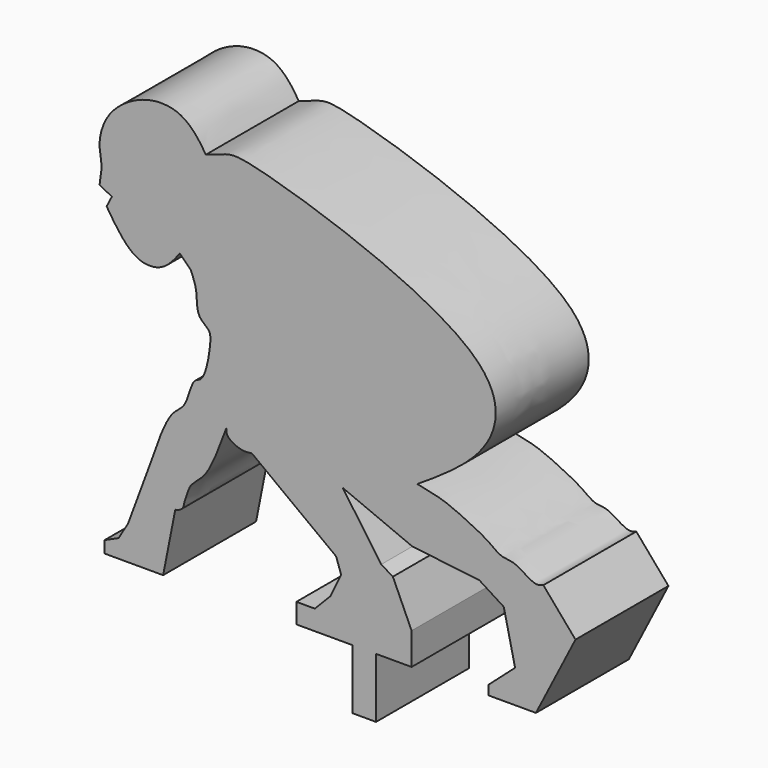
from build123d import *

# Parameters (mm, degrees)
F1_DEPTH = 6.34


with BuildPart() as f1:
    # F0 (on Front) → F1 (new body)
    with BuildSketch(Plane.XZ):
        with BuildLine():
            Line((-12.6490322873, -3.2698512077), (-11.368021369, -3.2698512077))
            Line((-11.368021369, -3.2698512077), (-11.3749522716, 0))
            Line((-11.3749522716, 0), (-9.4284210354, 0))
            Line((-9.4284210354, 0), (-9.4284210354, 1.7431378365))
            Line((-9.4284210354, 1.7431378365), (-10.4498676956, 4.0053427219))
            Line((-10.4498676956, 4.0053427219), (-11.0858632252, 4.3869242072))
            Line((-11.0858632252, 4.3869242072), (-13.1865749136, 7.3850303888))
            Line((-13.1865749136, 7.3850303888), (-9.3898754567, 5.8042109013))
            Line((-9.3898754567, 5.8042109013), (-5.7280850597, 5.3681209683))
            Line((-5.7280850597, 5.3681209683), (-4.3982765637, 4.5232027769))
            Line((-4.3982765637, 4.5232027769), (-3.7815538235, 1.7976462841))
            Line((-3.7815538235, 1.7976462841), (-5.2269976586, 0.5166381598))
            Line((-5.2269976586, 0.5166381598), (-5.2269976586, 0))
            Line((-5.2269976586, 0), (-2.6444715913, 0))
            Line((-2.6444715913, 0), (-0.4859422043, 4.2233914137))
            Line((-0.4859422043, 4.2233914137), (-2.2397474386, 6.267555058))
            add(Edge.make_bspline(
                [(-9.1137494892, 8.8909715414), (-8.6540406807, 8.799052454), (-7.7655490822, 8.6213979574), (-6.7041098217, 8.1641628082), (-5.2783597287, 7.4800864304), (-4.5330030432, 6.8180092602), (-3.7782507083, 6.9258502993), (-2.7585273405, 6.0735909751), (-2.3843641779, 6.2134850119), (-2.2397474386, 6.267555058)],
                knots=[0, 0, 0, 0, 0.1637114509, 0.3164095314, 0.4933909494, 0.6288476069, 0.7469529261, 0.9021954955, 1, 1, 1, 1], degree=3))
            add(Edge.make_bspline(
                [(-20.6583868712, 20.9548473358), (-20.261770275, 21.1036316148), (-19.4332398979, 21.4144413386), (-18.1065689496, 21.4985433424), (-4.4712962479, 17.1143951978), (-4.6984714845, 11.7466314914), (-7.5752204552, 9.8860426875), (-9.1137494892, 8.8909715414)],
                knots=[0, 0, 0, 0, 0.1073442843, 0.2242417518, 0.5853612758, 0.7782449139, 1, 1, 1, 1], degree=3))
            add(Edge.make_bspline(
                [(-26.4540742702, 17.6177005352), (-26.3949770124, 17.9915366435), (-26.2836266324, 18.6959143811), (-26.5593047922, 19.5225846627), (-26.1558159561, 21.309341302), (-24.1306581215, 22.7138596252), (-22.1941695459, 22.6838224396), (-21.1843602786, 21.7862982454), (-20.825893385, 21.219639132), (-20.6583868712, 20.9548473358)],
                knots=[0, 0, 0, 0, 0.1255186055, 0.2365007271, 0.3936888569, 0.5807105674, 0.7442566965, 0.8804947682, 1, 1, 1, 1], degree=3))
            Line((-26.4540742702, 17.6177005352), (-25.7824286819, 17.2737836838))
            Line((-25.7824286819, 17.2737836838), (-26.0686129332, 16.7148858309))
            add(Edge.make_bspline(
                [(-22.0756754279, 15.7512500882), (-22.3672896403, 15.3690961661), (-22.9293509831, 14.6325273107), (-24.2994499338, 14.5458422501), (-25.309425532, 15.5229489021), (-25.8123416478, 16.3125356228), (-26.0686129332, 16.7148858309)],
                knots=[0, 0, 0, 0, 0.2539984416, 0.4895601761, 0.7398948539, 1, 1, 1, 1], degree=3))
            Line((-22.0756754279, 15.7512500882), (-21.4760527015, 15.1538029313))
            add(Edge.make_bspline(
                [(-23.6495602876, 5.2318572998), (-23.2751095919, 6.3189722503), (-22.6847696664, 8.0328624), (-21.6862979532, 8.4121634506), (-21.4145120646, 10.0408022677), (-20.7067085731, 9.946781909), (-20.3439646615, 12.0738429194), (-20.4477735611, 12.6334495084), (-21.1939191261, 13.053167879), (-21.0918587147, 14.2305362895), (-21.3496356596, 14.8500068238), (-21.4760527015, 15.1538029313)],
                knots=[0, 0, 0, 0, 0.1779403522, 0.2805317107, 0.4023763966, 0.475002726, 0.6205204034, 0.699883961, 0.7867266989, 0.8954081024, 1, 1, 1, 1], degree=3))
            Line((-23.6495602876, 5.2318572998), (-24.897441268, 1.8627494574))
            Line((-24.897441268, 1.8627494574), (-25.4160407931, 0.9918212891))
            Line((-25.4160407931, 0.9918212891), (-26.1777341366, 0.6480365992))
            Line((-26.1777341366, 0.6480365992), (-26.1777341366, 0))
            Line((-26.1777341366, 0), (-22.9851044714, 0))
            Line((-22.9851044714, 0), (-22.3206486553, 3.3754110336))
            add(Edge.make_bspline(
                [(-19.5310581475, 8.197337389), (-19.7030691485, 7.7265032549), (-20.0453693839, 6.7895478626), (-20.6827627069, 5.4085835036), (-21.5273899487, 4.8887181915), (-21.682641034, 4.2650465281), (-21.8437888698, 3.9146418117), (-21.8603225048, 3.4747512639), (-22.2909523426, 3.3569383265), (-22.3206486553, 3.3754110336)],
                knots=[0, 0, 0, 0, 0.1985873891, 0.3951869917, 0.550639479, 0.6738011514, 0.7736743261, 0.8770313199, 0.9756696324, 0.9756696324, 0.9756696324, 0.9756696324], degree=3))
            add(Edge.make_bspline(
                [(-18.1410256773, 7.4264332652), (-18.3264665274, 7.4007183733), (-18.7298114879, 7.3447869426), (-19.5583744444, 7.7657971513), (-19.5388831024, 8.0737195026), (-19.5310581475, 8.197337389)],
                knots=[0, 0, 0, 0, 0.3374725772, 0.7340230767, 1, 1, 1, 1], degree=3))
            Line((-18.1410256773, 7.4264332652), (-13.5484654456, 3.9766430855))
            Line((-13.5484654456, 3.9766430855), (-13.2759101689, 3.1864643097))
            Line((-13.2759101689, 3.1864643097), (-13.8482758775, 1.9722878933))
            Line((-13.8482758775, 1.9722878933), (-14.7068258375, 1.0857507586))
            Line((-14.7068258375, 1.0857507586), (-15.7152824104, 1.0857507586))
            Line((-15.7152824104, 1.0857507586), (-15.7152824104, 0))
            Line((-15.7152824104, 0), (-12.6490322873, 0))
            Line((-12.6490322873, 0), (-12.6490322873, -3.2698512077))
        make_face()
    extrude(amount=F1_DEPTH)


solid = f1.part
